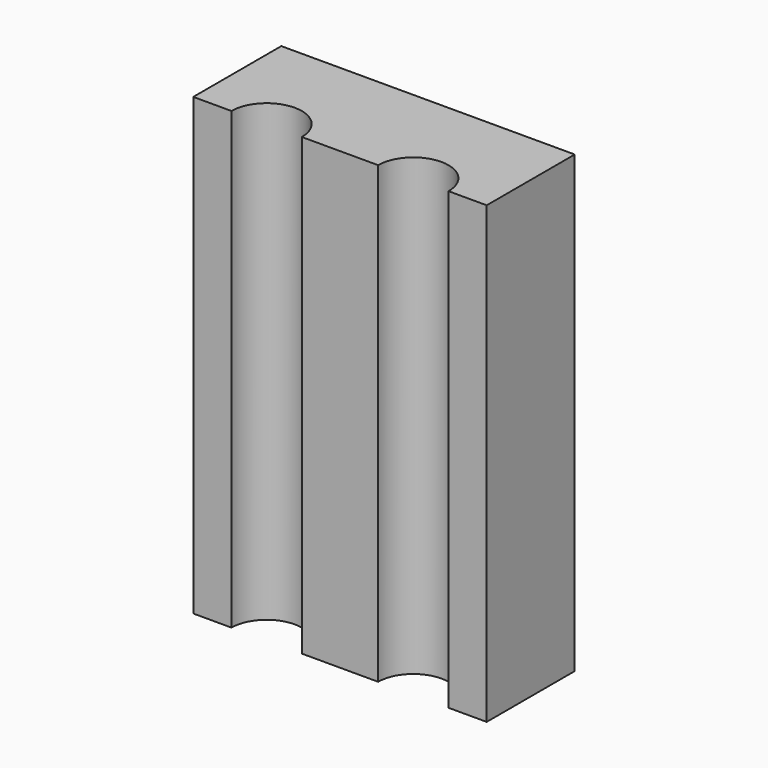
from build123d import *

# Parameters (mm, degrees)
F0_W     = 40
F0_H     = 15
F1_DEPTH = 62
F3_DEPTH = 62.001


with BuildPart() as f1:
    # F0 (on Top) → F1 (new body)
    with BuildSketch(Plane.XY):
        with Locations((20, 7.5)):
            Rectangle(F0_W, F0_H)
    extrude(amount=F1_DEPTH)

    # F2 (on face) → F3 (cut, through all)
    with BuildSketch(Plane(origin=(0, 0, 0), x_dir=(1, 0, 0), z_dir=(0, 0, -1))):
        with BuildLine():
            Line((14.8, 0), (5.2, 0))
            ThreePointArc((5.2, 0), (10, -4.8), (14.8, 0))
        make_face()
        with BuildLine():
            Line((34.8, 0), (25.2, 0))
            ThreePointArc((25.2, 0), (30, -4.8), (34.8, 0))
        make_face()
    extrude(amount=-F3_DEPTH, mode=Mode.SUBTRACT)


solid = f1.part
